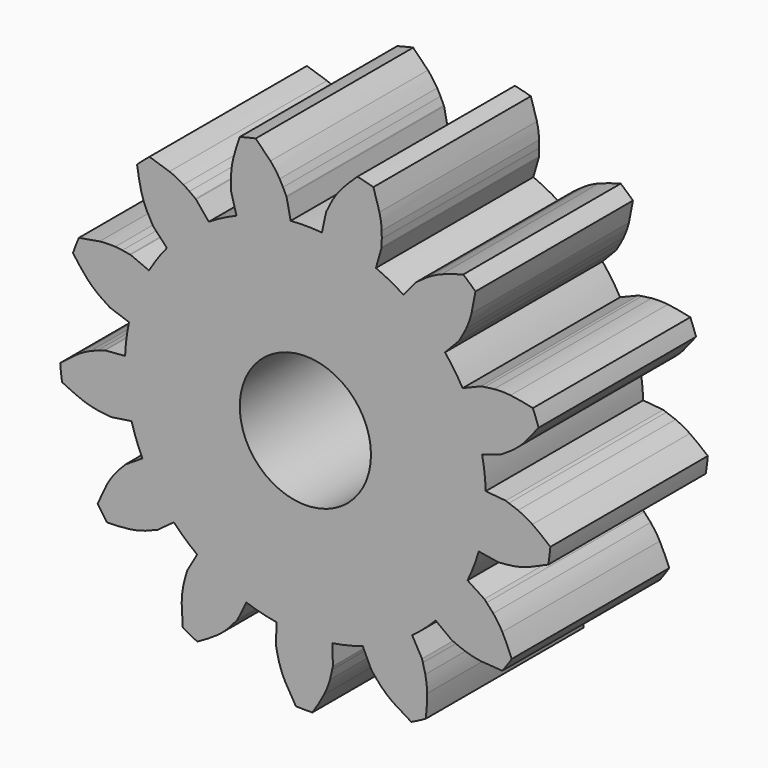
from build123d import *

# Parameters (mm, degrees)
F1_DEPTH = 15
F2_DEPTH = 15
F4_COUNT = 13
F6_R     = 5
F7_DEPTH = 15.0010001


with BuildPart() as f1:
    # F0 (on Front) → F1 (new body)
    with BuildSketch(Plane.XZ):
        with BuildLine():
            add(Edge.make_bspline(
                [(-2.6608039678, 17.2184534435), (-2.9907513098, 17.597137207), (-3.3878730146, 17.9805661391), (-3.7849947193, 18.3639950712)],
                knots=[0.6809182585, 0.6809182585, 0.6809182585, 0.6809182585, 1, 1, 1, 1], degree=3))
            ThreePointArc((-3.7849947193, 18.3639950712), (-4.3958750622, 18.2274184249), (-5.0018560577, 18.0705267211))
            Line((-5.0018560577, 18.0705267211), (-2.6608039678, 17.2184534435))
        make_face()
        with BuildLine():
            Line((-2.6608039678, 17.2184534435), (-5.0018560577, 18.0705267211))
            add(Edge.make_bspline(
                [(-5.5101786738, 16.4136780438), (-5.3899289012, 16.9362182435), (-5.1958924795, 17.5033724823), (-5.0018560577, 18.0705267211)],
                knots=[0.6535136238, 0.6535136238, 0.6535136238, 0.6535136238, 1, 1, 1, 1], degree=3))
            Line((-5.5101786738, 16.4136780438), (-1.7033354648, 15.7722485368))
            add(Edge.make_bspline(
                [(-1.7033354648, 15.7722485368), (-1.7539342996, 15.8760853401), (-1.8353328882, 16.0366506526), (-1.9285544102, 16.2002856275), (-1.9578549745, 16.25)],
                knots=[0.2597652555, 0.2597652555, 0.2597652555, 0.2597652555, 0.3605682514, 0.4042372682, 0.4042372682, 0.4042372682, 0.4042372682], degree=3))
            add(Edge.make_bspline(
                [(-1.9578549745, 16.25), (-2.1251117261, 16.5337851297), (-2.3513660837, 16.8579203433), (-2.6324661308, 17.1859298332), (-2.6608039678, 17.2184534435)],
                knots=[0.4042372682, 0.4042372682, 0.4042372682, 0.4042372682, 0.6535136238, 0.6809182585, 0.6809182585, 0.6809182585, 0.6809182585], degree=3))
        make_face()
        with BuildLine():
            Line((-1.7033354648, 15.7722485368), (-5.5101786738, 16.4136780438))
            add(Edge.make_bspline(
                [(-5.6721797954, 15.185469107), (-5.6607702001, 15.5619806063), (-5.6118467821, 15.9718836648), (-5.5101786738, 16.4136780438)],
                knots=[0.3605682514, 0.3605682514, 0.3605682514, 0.3605682514, 0.6535136238, 0.6535136238, 0.6535136238, 0.6535136238], degree=3))
            Line((-5.6721797954, 15.185469107), (-1.4536982956, 15.2496541849))
            add(Edge.make_bspline(
                [(-1.4536982956, 15.2496541849), (-1.4800822464, 15.3025462829), (-1.5425618047, 15.4294364971), (-1.6398785588, 15.6420249398), (-1.7033354648, 15.7722485368)],
                knots=[0.030717377, 0.030717377, 0.030717377, 0.030717377, 0.1333464108, 0.2597652555, 0.2597652555, 0.2597652555, 0.2597652555], degree=3))
        make_face()
        with BuildLine():
            Line((-1.4536982956, 15.2496541849), (-5.6721797954, 15.185469107))
            add(Edge.make_bspline(
                [(-5.6615185157, 14.44022242), (-5.6673100993, 14.6214792418), (-5.6810295998, 14.8934295531), (-5.6721797954, 15.185469107)],
                knots=[0.1333464108, 0.1333464108, 0.1333464108, 0.1333464108, 0.3605682514, 0.3605682514, 0.3605682514, 0.3605682514], degree=3))
            add(Edge.make_bspline(
                [(-5.6567827873, 14.1835772596), (-5.6574512399, 14.2587140488), (-5.6581196925, 14.3338508381), (-5.6615185157, 14.44022242)],
                knots=[0, 0, 0, 0, 0.1333464108, 0.1333464108, 0.1333464108, 0.1333464108], degree=3))
            Line((-5.6567827873, 14.1835772596), (-5.2485836603, 12.7088500487))
            ThreePointArc((-5.2485836603, 12.7088500487), (-3.2236417123, 13.3667735116), (-1.1214047744, 13.7041946619))
            Line((-1.1214047744, 13.7041946619), (-1.4302964184, 15.2028716872))
            add(Edge.make_bspline(
                [(-1.4302964184, 15.2028716872), (-1.4380489335, 15.2183475028), (-1.4458014487, 15.2338233185), (-1.4536982956, 15.2496541849)],
                knots=[0, 0, 0, 0, 0.030717377, 0.030717377, 0.030717377, 0.030717377], degree=3))
        make_face()
    extrude(amount=F1_DEPTH)


with BuildPart() as f2:
    # F0 (on Front) → F2 (new body)
    with BuildSketch(Plane.XZ):
        with BuildLine():
            ThreePointArc((13.75, 0), (9.3178104819, 10.1114246189), (-1.1214047744, 13.7041946619))
            ThreePointArc((-1.1214047744, 13.7041946619), (-3.2236417123, 13.3667735116), (-5.2485836603, 12.7088500487))
            ThreePointArc((-5.2485836603, 12.7088500487), (-7.645079289, -11.4287034551), (13.75, 0))
        make_face()
    extrude(amount=F2_DEPTH)


with BuildPart() as f4_1:
    # F4: instance of F1
    add(f1.part.rotate(Axis((0, -28.6558531225, 0), (0, -1, 0)), 1 * 360 / F4_COUNT))


with BuildPart() as f4_2:
    # F4: instance of F1
    add(f1.part.rotate(Axis((0, -28.6558531225, 0), (0, -1, 0)), 2 * 360 / F4_COUNT))


with BuildPart() as f4_3:
    # F4: instance of F1
    add(f1.part.rotate(Axis((0, -28.6558531225, 0), (0, -1, 0)), 3 * 360 / F4_COUNT))


with BuildPart() as f4_4:
    # F4: instance of F1
    add(f1.part.rotate(Axis((0, -28.6558531225, 0), (0, -1, 0)), 4 * 360 / F4_COUNT))


with BuildPart() as f4_5:
    # F4: instance of F1
    add(f1.part.rotate(Axis((0, -28.6558531225, 0), (0, -1, 0)), 5 * 360 / F4_COUNT))


with BuildPart() as f4_6:
    # F4: instance of F1
    add(f1.part.rotate(Axis((0, -28.6558531225, 0), (0, -1, 0)), 6 * 360 / F4_COUNT))


with BuildPart() as f4_7:
    # F4: instance of F1
    add(f1.part.rotate(Axis((0, -28.6558531225, 0), (0, -1, 0)), 7 * 360 / F4_COUNT))


with BuildPart() as f4_8:
    # F4: instance of F1
    add(f1.part.rotate(Axis((0, -28.6558531225, 0), (0, -1, 0)), 8 * 360 / F4_COUNT))


with BuildPart() as f4_9:
    # F4: instance of F1
    add(f1.part.rotate(Axis((0, -28.6558531225, 0), (0, -1, 0)), 9 * 360 / F4_COUNT))


with BuildPart() as f4_10:
    # F4: instance of F1
    add(f1.part.rotate(Axis((0, -28.6558531225, 0), (0, -1, 0)), 10 * 360 / F4_COUNT))


with BuildPart() as f4_11:
    # F4: instance of F1
    add(f1.part.rotate(Axis((0, -28.6558531225, 0), (0, -1, 0)), 11 * 360 / F4_COUNT))


with BuildPart() as f4_12:
    # F4: instance of F1
    add(f1.part.rotate(Axis((0, -28.6558531225, 0), (0, -1, 0)), 12 * 360 / F4_COUNT))

    # F5: union F1, F2, F4_1, F4_2, F4_3, F4_4, F4_5, F4_6, F4_7, F4_8, F4_9, F4_10, F4_11
    add(f1.part)
    add(f2.part)
    add(f4_1.part)
    add(f4_2.part)
    add(f4_3.part)
    add(f4_4.part)
    add(f4_5.part)
    add(f4_6.part)
    add(f4_7.part)
    add(f4_8.part)
    add(f4_9.part)
    add(f4_10.part)
    add(f4_11.part)

    # F6 (on face) → F7 (cut, through all)
    with BuildSketch(Plane.XZ.offset(15)):
        Circle(F6_R)
    extrude(amount=-F7_DEPTH, mode=Mode.SUBTRACT)


solid = f4_12.part
